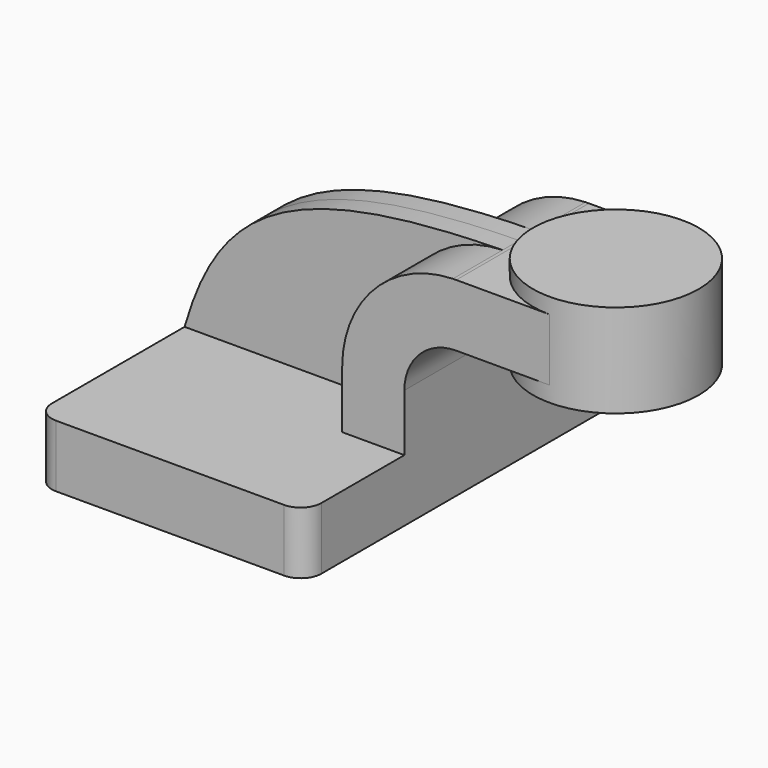
from build123d import *

# Parameters (mm, degrees)
F1_DEPTH = 63.5
F2_DEPTH = 25.4
F3_DEPTH = 6.35
F5_R     = 6.35


with BuildPart() as f1:
    # F0 (on Front) → F1 (new body, symmetric)
    with BuildSketch(Plane.XZ):
        Polygon((41.275, -9.525), (41.275, 9.525), (22.225, 9.525), (-41.275, 9.525), (-41.275, -9.525), align=None)
    extrude(amount=F1_DEPTH, both=True)

    # F0 (on Front) → F2 (join, symmetric)
    with BuildSketch(Plane.XZ):
        Polygon((60.325, 61.9125), (60.325, 42.8625), (85.725, 42.8625), (85.725, 52.3875), (85.725, 61.9125), align=None)
        with BuildLine():
            Line((22.225, 9.525), (41.275, 9.525))
            Line((41.275, 9.525), (41.275, 26.9875))
            ThreePointArc((41.275, 26.9875), (45.92468, 38.21282), (57.15, 42.8625))
            Line((57.15, 42.8625), (60.325, 42.8625))
            Line((60.325, 42.8625), (60.325, 61.9125))
            Line((60.325, 61.9125), (57.15, 61.9125))
            add(Edge.make_bspline(
                [(56.128748, 61.897565), (56.46798, 61.902911), (56.808396, 61.907889), (57.15, 61.9125)],
                knots=[110.923942, 110.923942, 110.923942, 110.923942, 111.498569, 111.498569, 111.498569, 111.498569], degree=3))
            ThreePointArc((56.128748, 61.897565), (32.09583, 51.319458), (22.225, 26.9875))
            Line((22.225, 26.9875), (22.225, 9.525))
        make_face()
    extrude(amount=F2_DEPTH, both=True)

    # F0 (on Front) → F3 (join, symmetric)
    with BuildSketch(Plane.XZ):
        with BuildLine():
            Line((-41.275, 9.525), (22.225, 9.525))
            Line((22.225, 9.525), (22.225, 26.9875))
            ThreePointArc((22.225, 26.9875), (32.09583, 51.319458), (56.128748, 61.897565))
            add(Edge.make_bspline(
                [(-41.275, 9.525), (-30.753714, 46.112992), (-9.355641, 60.865587), (56.128748, 61.897565)],
                knots=[0, 0, 0, 0, 110.923942, 110.923942, 110.923942, 110.923942], degree=3))
        make_face()
    extrude(amount=F3_DEPTH, both=True)

    # F0 (on Front) → F4 (revolve)
    with BuildSketch(Plane.XZ):
        Polygon((85.725, 52.3875), (85.725, 42.8625), (85.725, 38.1), (111.125, 38.1), (111.125, 66.675), (85.725, 66.675), (85.725, 61.9125), align=None)
    revolve(axis=Axis((85.725, 0, 59.53125), (0, 0, 1)))

    # F5
    f5_edges = [f1.edges().sort_by_distance(p)[0] for p in [
        (41.275, -63.5, 0),
        (-41.275, -63.5, 0),
        (41.275, 63.5, 0),
        (-41.275, 63.5, 0),
    ]]
    fillet(f5_edges, radius=F5_R)


solid = f1.part
